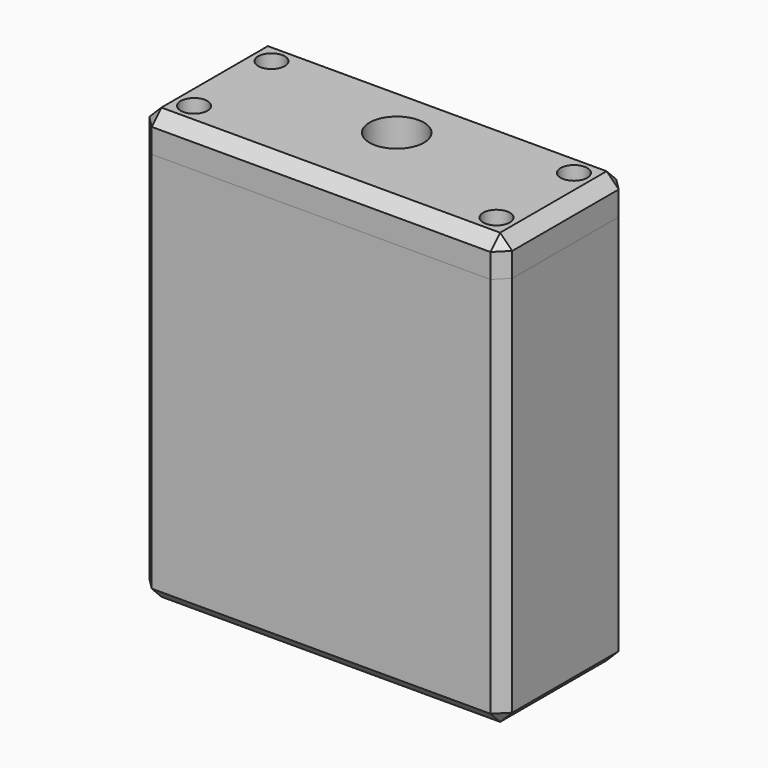
from build123d import *

# Parameters (mm, degrees)
SKETCH_W        = 30
SKETCH_H        = 13
PAD_DEPTH       = 32.6
POCKET_DEPTH    = 32.601
SKETCH002_W     = 17
SKETCH002_H     = 1.8
POCKET001_DEPTH = 31.6
POCKET002_DEPTH = 29.1
SKETCH004_R     = 1.75
POCKET003_DEPTH = 10
CHAMFER_SIZE    = 1
SKETCH008_W     = 17
SKETCH008_H     = 2.4
POCKET006_DEPTH = 31.6
SKETCH005_W     = 30
SKETCH005_H     = 13
PAD001_DEPTH    = 3
SKETCH006_R     = 1.1
POCKET004_DEPTH = 3.001
CHAMFER001_SIZE = 1
SKETCH007_R     = 2.25
POCKET005_DEPTH = 3.001


with BuildPart() as box:
    # Sketch → Pad (new body)
    with BuildSketch(Plane.XY):
        with Locations((-0.051306, 1)):
            Rectangle(SKETCH_W, SKETCH_H)
    extrude(amount=PAD_DEPTH)

    # Sketch001 (on Face6 of Pad) → Pocket (cut, through all)
    with BuildSketch(Plane.XY.offset(32.6)):
        with BuildLine():
            ThreePointArc((-5.201306, 4.7), (-7.101306, 2.8), (-5.201306, 0.9))
            Line((-5.201306, 0.9), (0.098694, 0.9))
            ThreePointArc((0.098694, 0.9), (1.998694, 2.8), (0.098694, 4.7))
            Line((-5.201306, 4.7), (0.098694, 4.7))
        make_face()
    extrude(amount=-POCKET_DEPTH, mode=Mode.SUBTRACT)

    # Sketch002 (on Face5 of Pocket) → Pocket001 (cut)
    with BuildSketch(Plane.XY.offset(32.6)):
        with Locations((-2.601306, 0)):
            Rectangle(SKETCH002_W, SKETCH002_H)
    extrude(amount=-POCKET001_DEPTH, mode=Mode.SUBTRACT)

    # Sketch003 (on Face5 of Pocket001) → Pocket002 (cut)
    with BuildSketch(Plane.XY.offset(32.6)):
        Polygon((-11.101306, 2.897445), (-11.101306, -0.9), (10.898694, -0.9), (10.898694, 2.659875), (8.16946, 4.7), (-8.602977, 4.7), align=None)
    extrude(amount=-POCKET002_DEPTH, mode=Mode.SUBTRACT)

    # Sketch004 (on Face5 of Pocket002) → Pocket003 (cut)
    with BuildSketch(Plane.XY.offset(32.6)):
        with Locations((12.448694, 5)):
            Circle(SKETCH004_R)
        with Locations((-12.5, -3)):
            Circle(SKETCH004_R)
        with Locations((-12.551306, 5)):
            Circle(SKETCH004_R)
        with Locations((12.5, -3)):
            Circle(SKETCH004_R)
    extrude(amount=-POCKET003_DEPTH, mode=Mode.SUBTRACT)

    # Chamfer
    chamfer_edges = [box.edges().sort_by_distance(p)[0] for p in [
        (-15.051306, 7.5, 16.3),
        (-0.051306, 7.5, 0),
        (-15.051306, 1, 0),
        (-15.051306, -5.5, 16.3),
        (-0.051306, -5.5, 0),
        (14.948694, 1, 0),
        (14.948694, 7.5, 16.3),
        (14.948694, -5.5, 16.3),
    ]]
    chamfer(chamfer_edges, length=CHAMFER_SIZE)

    # Sketch008 (on Face2 of Chamfer) → Pocket006 (cut)
    with BuildSketch(Plane.XY.offset(32.6)):
        with Locations((-2.601306, 0.3)):
            Rectangle(SKETCH008_W, SKETCH008_H)
    extrude(amount=-POCKET006_DEPTH, mode=Mode.SUBTRACT)


with BuildPart() as lid:
    # Sketch005 → Pad001 (new body)
    with BuildSketch(Plane.XY):
        with Locations((-0.051306, 1)):
            Rectangle(SKETCH005_W, SKETCH005_H)
    extrude(amount=PAD001_DEPTH)

    # Sketch006 (on Face6 of Pad001) → Pocket004 (cut, through all)
    with BuildSketch(Plane.XY.offset(3)):
        with Locations((12.448694, 5)):
            Circle(SKETCH006_R)
        with Locations((-12.551306, -3)):
            Circle(SKETCH006_R)
        with Locations((12.448694, -3)):
            Circle(SKETCH006_R)
        with Locations((-12.551306, 5)):
            Circle(SKETCH006_R)
    extrude(amount=-POCKET004_DEPTH, mode=Mode.SUBTRACT)

    # Chamfer001
    chamfer001_edges = [lid.edges().sort_by_distance(p)[0] for p in [
        (-15.051306, 7.5, 1.5),
        (-15.051306, 1, 3),
        (-15.051306, -5.5, 1.5),
        (-0.051306, -5.5, 3),
        (-0.051306, 7.5, 3),
        (14.948694, 1, 3),
        (14.948694, 7.5, 1.5),
        (14.948694, -5.5, 1.5),
    ]]
    chamfer(chamfer001_edges, length=CHAMFER001_SIZE)

    # Sketch007 (on Face17 of Chamfer001) → Pocket005 (cut, through all)
    with BuildSketch(Plane.XY.offset(3)):
        with Locations((0, 2.25)):
            Circle(SKETCH007_R)
    extrude(amount=-POCKET005_DEPTH, mode=Mode.SUBTRACT)


with BuildPart() as lid_1:
    # Body001 placement: moved
    add(lid.part.moved(Location((0, 0, 32.6))))


solid = Compound([box.part, lid_1.part])
